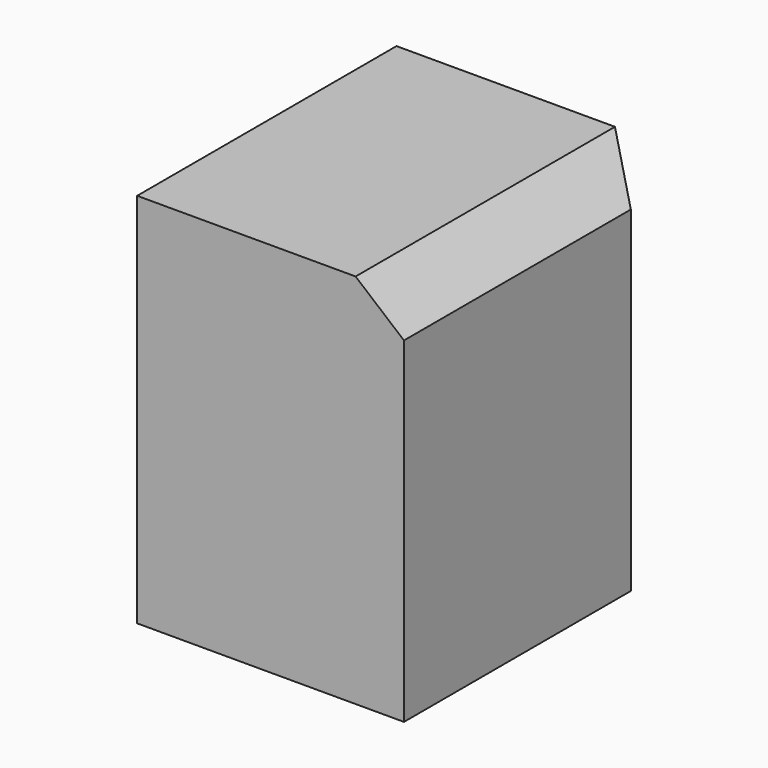
from build123d import *

# Parameters (mm, degrees)
F0_W     = 28.0245169997
F0_H     = 34.0497903526
F1_DEPTH = 39.53846
F2_SIZE2 = 5.08
F2_SIZE  = 4.2626261264


with BuildPart() as f1:
    # F0 (on Top) → F1 (new body)
    with BuildSketch(Plane.XY):
        with Locations((14.0122584999, 17.0248951763)):
            Rectangle(F0_W, F0_H)
    extrude(amount=F1_DEPTH)

    # F2
    f2_edges = [f1.edges().sort_by_distance(p)[0] for p in [
        (28.024517, 34.04979, 19.76923),
        (28.024517, 17.024895, 39.53846),
    ]]
    f2_side = f1.faces().sort_by_distance((28.024517, 17.024895, 19.76923))[0]
    chamfer(f2_edges, length=F2_SIZE, length2=F2_SIZE2, reference=f2_side)


solid = f1.part
